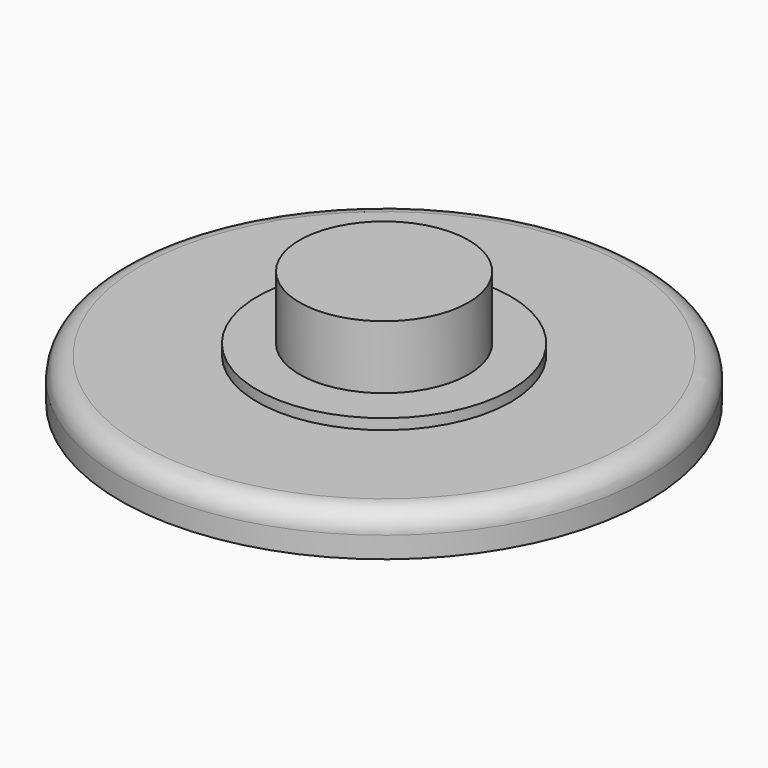
from build123d import *

# Parameters (mm, degrees)
F0_R     = 12.5
F1_DEPTH = 2
F2_R     = 1
F3_R     = 6
F4_DEPTH = 0.5
F5_R     = 4
F6_DEPTH = 3


with BuildPart() as f1:
    # F0 (on Top) → F1 (new body)
    with BuildSketch(Plane.XY):
        Circle(F0_R)
    extrude(amount=F1_DEPTH)

    # F2
    f2_edges = [f1.edges().sort_by_distance(p)[0] for p in [
        (-12.5, 0, 2),
    ]]
    fillet(f2_edges, radius=F2_R)

    # F3 (on face) → F4 (join)
    with BuildSketch(Plane.XY.offset(2)):
        Circle(F3_R)
    extrude(amount=F4_DEPTH)

    # F5 (on face) → F6 (join)
    with BuildSketch(Plane.XY.offset(2.5)):
        Circle(F5_R)
    extrude(amount=F6_DEPTH)


solid = f1.part
